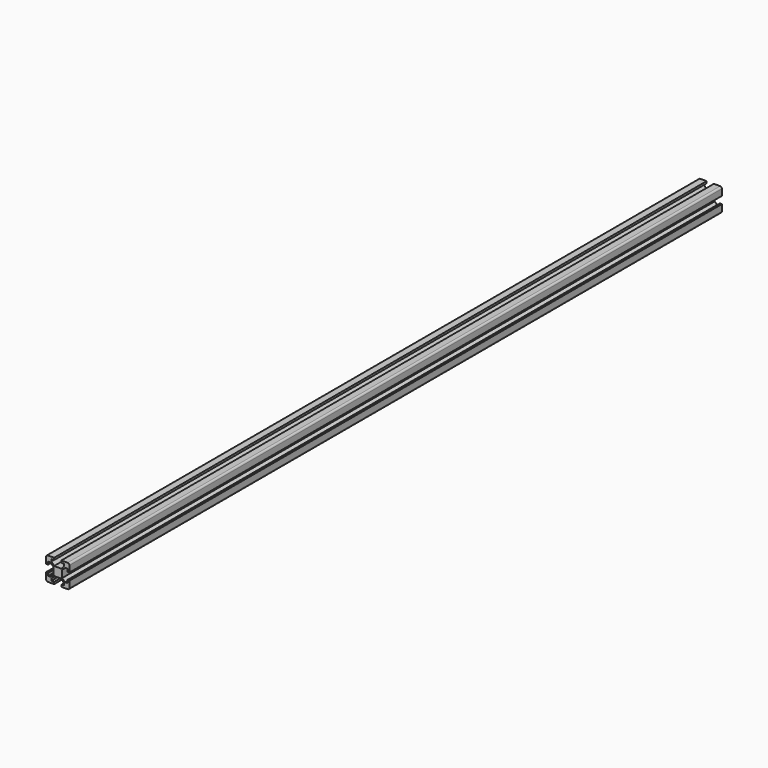
from build123d import *

# Parameters (mm, degrees)
F1_DEPTH = 350
F2_R     = 1.5


with BuildPart() as f1:
    # F0 (on Front) → F1 (new body, symmetric)
    with BuildSketch(Plane.XZ):
        Polygon((10, 3.1115), (10, 10), (3.1115, 10), (3.1115, 8.222), (5.461, 8.222), (5.461, 6.444), (3.1115, 3.777), (0, 3.777), (-3.1115, 3.777), (-5.461, 6.444), (-5.461, 8.222), (-3.1115, 8.222), (-3.1115, 10), (-10, 10), (-10, 3.1115), (-8.222, 3.1115), (-8.222, 5.461), (-6.444, 5.461), (-3.777, 3.1115), (-3.777, 0), (-3.777, -3.1115), (-6.444, -5.461), (-8.222, -5.461), (-8.222, -3.1115), (-10, -3.1115), (-10, -10), (-3.1115, -10), (-3.1115, -8.222), (-5.461, -8.222), (-5.461, -6.444), (-3.1115, -3.777), (0, -3.777), (3.1115, -3.777), (5.461, -6.444), (5.461, -8.222), (3.1115, -8.222), (3.1115, -10), (10, -10), (10, -3.1115), (8.222, -3.1115), (8.222, -5.461), (6.444, -5.461), (3.777, -3.1115), (3.777, 0), (3.777, 3.1115), (6.444, 5.461), (8.222, 5.461), (8.222, 3.1115), align=None)
    extrude(amount=F1_DEPTH, both=True)

    # F2
    f2_edges = [f1.edges().sort_by_distance(p)[0] for p in [
        (-10, 0, 10),
        (10, 0, 10),
        (10, 0, -10),
        (-10, 0, -10),
    ]]
    fillet(f2_edges, radius=F2_R)


solid = f1.part
